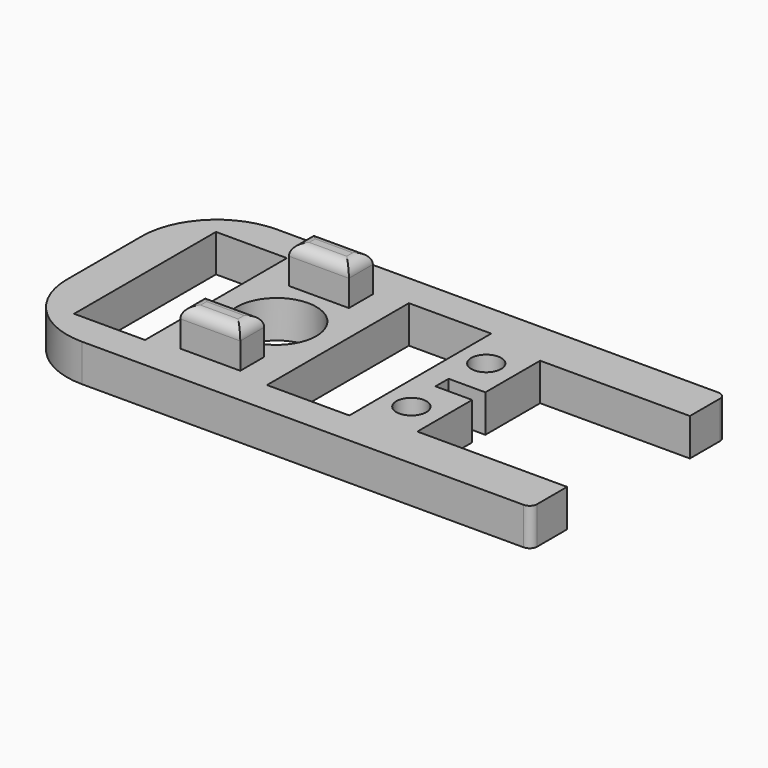
from build123d import *

# Parameters (mm, degrees)
SKETCH_R      = 5.3
PAD_DEPTH     = 5
FILLET_R      = 10
FILLET001_R   = 1
SKETCH001_R   = 2
SKETCH001_W   = 9.475223
SKETCH001_H   = 23.68809
SKETCH001_W_2 = 11
SKETCH001_W_3 = 4.903309
SKETCH001_H_2 = 2.2
POCKET_DEPTH  = 5
SKETCH002_W   = 8
SKETCH002_H   = 4
PAD001_DEPTH  = 5
FILLET002_R   = 1.5


with BuildPart() as part:
    # Sketch → Pad (new body)
    with BuildSketch(Plane.XY):
        Polygon((30.887989, 10.25), (30.887989, 16.25), (-39.112011, 16.25), (-39.112011, -16.25), (30.887989, -16.25), (30.887989, -10.25), (10.887989, -10.25), (10.887989, 10.25), align=None)
        with Locations((-16.112011, 0)):
            Circle(SKETCH_R, mode=Mode.SUBTRACT)
    extrude(amount=PAD_DEPTH)

    # Fillet
    fillet_edges = [part.edges().sort_by_distance(p)[0] for p in [
        (-39.112011, -16.25, 2.5),
        (-39.112011, 16.25, 2.5),
    ]]
    fillet(fillet_edges, radius=FILLET_R)

    # Fillet001
    fillet001_edges = [part.edges().sort_by_distance(p)[0] for p in [
        (30.887989, -16.25, 2.5),
        (30.887989, 16.25, 2.5),
    ]]
    fillet(fillet001_edges, radius=FILLET001_R)

    # Sketch001 (on Face5 of Fillet001) → Pocket (cut)
    with BuildSketch(Plane.XY.offset(5)):
        with Locations((6.887989, 6.25)):
            Circle(SKETCH001_R)
        with Locations((6.887989, -6.25)):
            Circle(SKETCH001_R)
        with Locations((-28.9485835, 0)):
            Rectangle(SKETCH001_W, SKETCH001_H)
        with Locations((-2.4204911845, 0)):
            Rectangle(SKETCH001_W_2, SKETCH001_H)
        with Locations((8.4363345, 0)):
            Rectangle(SKETCH001_W_3, SKETCH001_H_2)
    extrude(amount=-POCKET_DEPTH, mode=Mode.SUBTRACT)

    # Sketch002 (on Face5 of Pocket) → Pad001 (join)
    with BuildSketch(Plane.XY.offset(5)):
        with Locations((-16.112011, 9.067142847)):
            Rectangle(SKETCH002_W, SKETCH002_H)
        with Locations((-16.112011, -9.067142847)):
            Rectangle(SKETCH002_W, SKETCH002_H)
    extrude(amount=PAD001_DEPTH)

    # Fillet002
    fillet002_edges = [part.edges().sort_by_distance(p)[0] for p in [
        (-16.112011, 11.067143, 10),
        (-12.112011, 9.067143, 10),
        (-16.112011, 7.067143, 10),
        (-20.112011, 9.067143, 10),
        (-16.112011, -7.067143, 10),
        (-12.112011, -9.067143, 10),
        (-16.112011, -11.067143, 10),
        (-20.112011, -9.067143, 10),
    ]]
    fillet(fillet002_edges, radius=FILLET002_R)


solid = part.part
